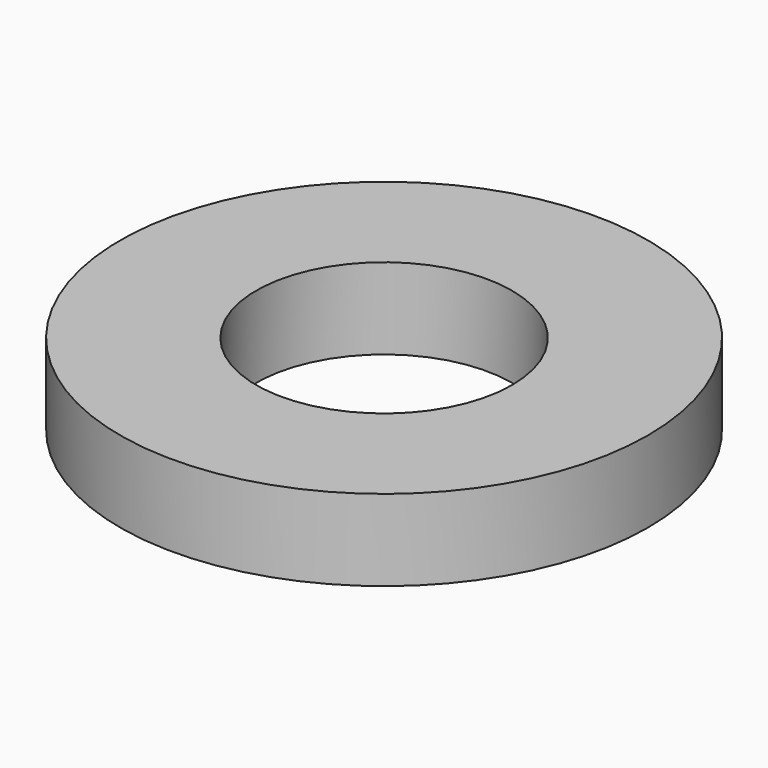
from build123d import *

# Parameters (mm, degrees)
SKETCH_R   = 6.5
SKETCH_R_2 = 3.15
PAD_DEPTH  = 2


with BuildPart() as part:
    # Sketch → Pad (new body)
    with BuildSketch(Plane.XY):
        Circle(SKETCH_R)
        Circle(SKETCH_R_2, mode=Mode.SUBTRACT)
    extrude(amount=PAD_DEPTH)


solid = part.part
